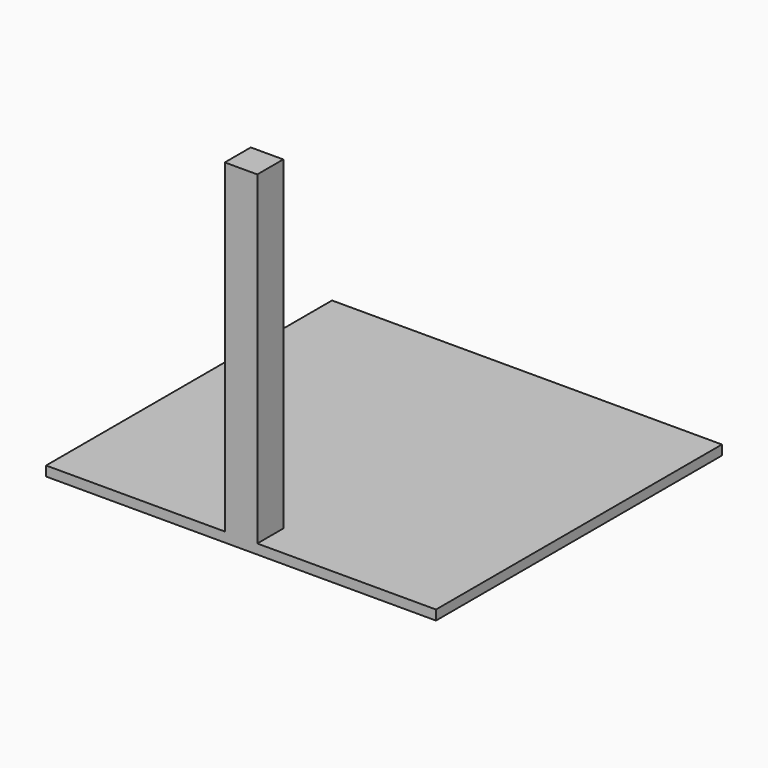
from build123d import *

# Parameters (mm, degrees)
F0_W     = 10
F0_H     = 100
F1_DEPTH = 10
F3_DEPTH = 110


with BuildPart() as f1:
    # F0 (on Front) → F1 (new body)
    with BuildSketch(Plane.XZ):
        with Locations((-1.558005, 31.992308)):
            Rectangle(F0_W, F0_H)
    extrude(amount=F1_DEPTH)

    # F2 (on face) → F3 (join)
    with BuildSketch(Plane.XZ.offset(10)):
        Polygon((3.441995, -18.007692), (-6.558005, -18.007692), (-61.558005, -18.007692), (-61.558005, -21.007692), (58.441995, -21.007692), (58.441995, -18.007692), align=None)
    extrude(amount=-F3_DEPTH)


solid = f1.part
